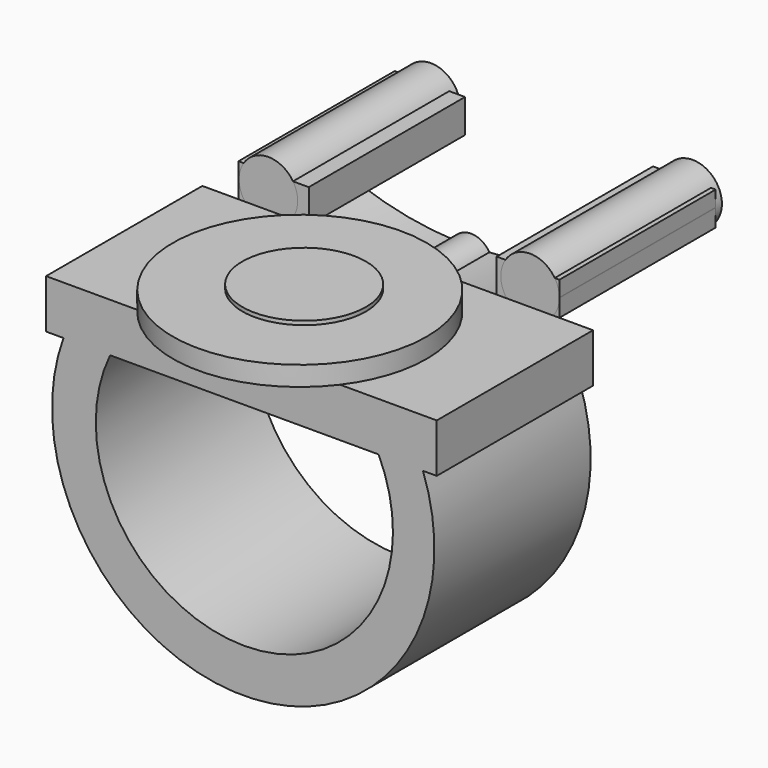
from build123d import *

# Parameters (mm, degrees)
F0_W      = 25.4
F0_H      = 12.7
F1_DEPTH  = 3.175
F3_DEPTH  = 12.7
F4_R      = 8.255919
F5_DEPTH  = 1.27
F6_R      = 4.016388
F7_DEPTH  = 1.524
F8_W      = 4.073842
F8_H      = 2.178376
F8_W_2    = 4.567642
F9_DEPTH  = 12.7
F11_DEPTH = 5.08
F12_R     = 1.905
F13_DEPTH = 13.208
F14_R     = 1.374255
F15_DEPTH = 5.08


with BuildPart() as f1:
    # F0 (on Top) → F1 (new body)
    with BuildSketch(Plane.XY):
        with Locations((-0.705556, -6.35)):
            Rectangle(F0_W, F0_H)
    extrude(amount=-F1_DEPTH)

    # F2 (on Front) → F3 (join)
    with BuildSketch(Plane.XZ):
        with BuildLine():
            Line((-6.82654, 0), (-10.570128, 0))
            ThreePointArc((-10.570128, 0), (-0.587228, -19.834257), (9.395671, 0))
            Line((9.395671, 0), (5.79889, 0))
            ThreePointArc((5.79889, 0), (-0.513825, -16.97284), (-6.82654, 0))
        make_face()
    extrude(amount=F3_DEPTH)

    # F4 (on Top) → F5 (join)
    with BuildSketch(Plane.XY):
        with Locations((-0.884902, -7.729196)):
            Circle(F4_R)
    extrude(amount=F5_DEPTH)

    # F6 (on Top) → F7 (join)
    with BuildSketch(Plane.XY):
        with Locations((-0.787807, -7.498141)):
            Circle(F6_R)
    extrude(amount=F7_DEPTH)


with BuildPart() as f9:
    # F8 (on Front) → F9 (new body)
    with BuildSketch(Plane.XZ):
        with Locations((7.771082, 1.089188)):
            Rectangle(F8_W, F8_H)
        with Locations((-8.771187, 1.089188)):
            Rectangle(F8_W_2, F8_H)
    extrude(amount=-F9_DEPTH)


with BuildPart() as f11:
    # F10 (on Front) → F11 (new body)
    with BuildSketch(Plane.XZ):
        with BuildLine():
            Line((-7.098918, 0), (-8.96747, 0))
            ThreePointArc((-8.96747, 0), (-0.351368, -2.796372), (8.264735, 0))
            Line((8.264735, 0), (6.707608, 0))
            ThreePointArc((6.707608, 0), (-0.195655, -1.179251), (-7.098918, 0))
        make_face()
    extrude(amount=-F11_DEPTH)


with BuildPart() as f13:
    # F12 (on Front) → F13 (new body)
    with BuildSketch(Plane.XZ):
        with Locations((-9.11403, 1.149864)):
            Circle(F12_R)
        with Locations((7.90397, 1.149864)):
            Circle(F12_R)
    extrude(amount=-F13_DEPTH)


with BuildPart() as f15:
    # F14 (on Front) → F15 (new body)
    with BuildSketch(Plane.XZ):
        with Locations((0, -1.808403)):
            Circle(F14_R)
    extrude(amount=-F15_DEPTH)


solid = Compound([f1.part, f9.part, f11.part, f13.part, f15.part])
